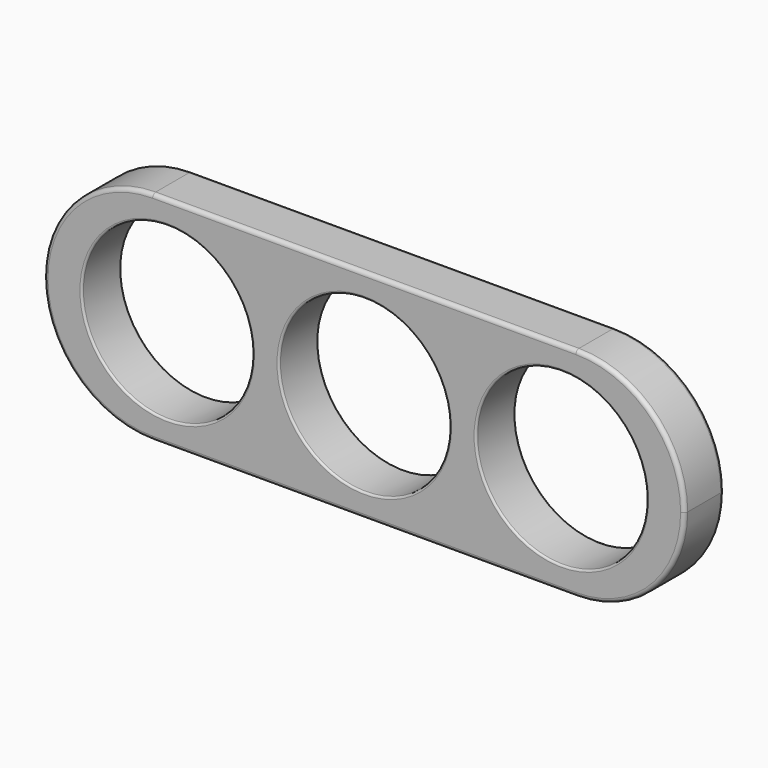
from build123d import *

# Parameters (mm, degrees)
F0_R     = 11
F1_DEPTH = 6.35
F2_R     = 0.508
F3_R     = 0.254


with BuildPart() as f1:
    # F0 (on Front) → F1 (new body)
    with BuildSketch(Plane.XZ):
        with BuildLine():
            Line((-27.275, -14), (27.275, -14))
            ThreePointArc((27.275, -14), (37.174495, -9.899495), (41.275, 0))
            ThreePointArc((41.275, 0), (37.174495, 9.899495), (27.275, 14))
            Line((27.275, 14), (-27.275, 14))
            ThreePointArc((-27.275, 14), (-37.174495, 9.899495), (-41.275, 0))
            ThreePointArc((-41.275, 0), (-37.174495, -9.899495), (-27.275, -14))
        make_face()
        with Locations((-25.4, 0)):
            Circle(F0_R, mode=Mode.SUBTRACT)
        Circle(F0_R, mode=Mode.SUBTRACT)
        with Locations((25.4, 0)):
            Circle(F0_R, mode=Mode.SUBTRACT)
    extrude(amount=F1_DEPTH)

    # F2
    f2_edges = [f1.edges().sort_by_distance(p)[0] for p in [
        (0, -6.35, 14),
        (0, 0, 14),
    ]]
    fillet(f2_edges, radius=F2_R)

    # F3
    f3_edges = [f1.edges().sort_by_distance(p)[0] for p in [
        (14.4, -6.35, 0),
        (-11, -6.35, 0),
        (-36.4, -6.35, 0),
        (-36.4, 0, 0),
        (-11, 0, 0),
        (14.4, 0, 0),
    ]]
    fillet(f3_edges, radius=F3_R)


solid = f1.part
